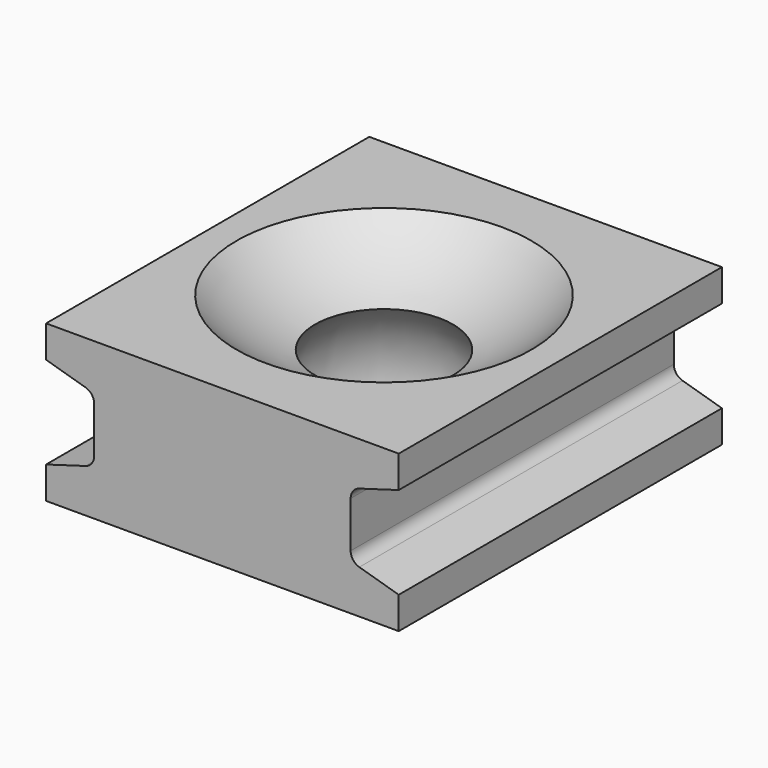
from build123d import *

# Parameters (mm, degrees)
F0_W     = 22
F0_H     = 25.2
F1_DEPTH = 9.75
F3_DEPTH = 25.2
F12_R    = 2
F13_R    = 0.75


with BuildPart() as f1:
    # F0 (on Top) → F1 (new body)
    with BuildSketch(Plane.XY):
        Rectangle(F0_W, F0_H)
    extrude(amount=F1_DEPTH)

    # F2 (on face) → F3 (cut, through all)
    with BuildSketch(Plane.XZ.offset(12.6)):
        Polygon((-8, 2.875), (-8, 6.875), (-11, 7.75), (-11, 2), align=None)
        Polygon((11, 7.75), (8, 6.875), (8, 2.875), (11, 2), align=None)
    extrude(amount=-F3_DEPTH, mode=Mode.SUBTRACT)

    # F4 (on Right) → F5 (revolve, cut)
    with BuildSketch(Plane.YZ):
        with BuildLine():
            Line((0, 9.75), (0, 6.75))
            Line((0, 6.75), (4.3, 6.75))
            ThreePointArc((4.3, 6.75), (6.914658, 7.981058), (9.2, 9.75))
            Line((9.2, 9.75), (0, 9.75))
        make_face()
    revolve(axis=Axis((0, 0, 8.25), (0, 0, -1)), mode=Mode.SUBTRACT)

    # F6 (on Front) → F7 (revolve, cut)
    with BuildSketch(Plane.XZ):
        with BuildLine():
            Line((0, -1.25), (6.1, -1.25))
            ThreePointArc((6.1, -1.25), (5.667858, 5.198602), (0, 8.3045))
            Line((0, 8.3045), (0, -1.25))
        make_face()
    revolve(axis=Axis((0, 0, 3.52725), (0, 0, -1)), mode=Mode.SUBTRACT)

    # F6 (on Front) → F10 (revolve, cut)
    with BuildSketch(Plane.XZ):
        with BuildLine():
            Line((0, -1.25), (6.1, -1.25))
            ThreePointArc((6.1, -1.25), (5.667858, 5.198602), (0, 8.3045))
            Line((0, 8.3045), (0, -1.25))
        make_face()
    revolve(axis=Axis((0, 0, 3.490293), (0, 0, -1)), mode=Mode.SUBTRACT)

    # F8 (on Front) → F11 (revolve)
    with BuildSketch(Plane.XZ):
        with BuildLine():
            ThreePointArc((6.536245, 0), (6.34896, -0.635762), (6.1, -1.25))
            ThreePointArc((6.1, -1.25), (8.323498, -0.707714), (10.5, 0))
            Line((10.5, 0), (6.536245, 0))
        make_face()
    revolve(axis=Axis((0, 0, 3.52725), (0, 0, -1)))

    # F12
    f12_edges = [f1.edges().sort_by_distance(p)[0] for p in [
        (-10.5, 0, 0),
    ]]
    fillet(f12_edges, radius=F12_R)

    # F13
    f13_edges = [f1.edges().sort_by_distance(p)[0] for p in [
        (8, 0, 2.875),
        (8, 0, 6.875),
        (-8, 0, 6.875),
        (-8, 0, 2.875),
    ]]
    fillet(f13_edges, radius=F13_R)


solid = f1.part
